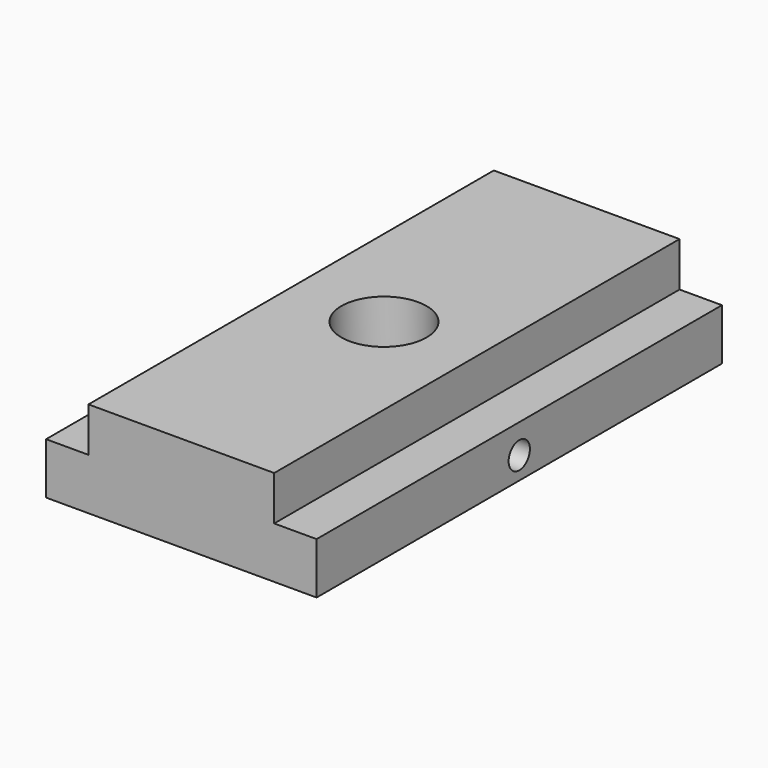
from build123d import *

# Parameters (mm, degrees)
F1_DEPTH = 47.57
F2_R     = 8
F3_DEPTH = 25
F4_R     = 12.7
F5_DEPTH = 8.2
F6_R     = 2.5
F7_DEPTH = 50.801
F8_R     = 4
F9_DEPTH = 15.2


with BuildPart() as f1:
    # F0 (on Front) → F1 (new body, symmetric)
    with BuildSketch(Plane.XZ):
        Polygon((-25.4, 0), (0, 0), (25.4, 0), (25.4, 9.66), (17.44, 9.66), (17.44, 18), (0, 18), (-17.44, 18), (-17.44, 9.66), (-25.4, 9.66), align=None)
    extrude(amount=F1_DEPTH, both=True)

    # F2 (on face) → F3 (cut)
    with BuildSketch(Plane.XY.offset(18)):
        Circle(F2_R)
    extrude(amount=-F3_DEPTH, mode=Mode.SUBTRACT)

    # F4 (on face) → F5 (cut)
    with BuildSketch(Plane(origin=(0, 0, 0), x_dir=(1, 0, 0), z_dir=(0, 0, -1))):
        Circle(F4_R)
    extrude(amount=-F5_DEPTH, mode=Mode.SUBTRACT)

    # F6 (on face) → F7 (cut, through all)
    with BuildSketch(Plane(origin=(-25.4, 0, 0), x_dir=(0, -1, 0), z_dir=(-1, 0, 0))):
        with Locations((0, 4.2)):
            Circle(F6_R)
    extrude(amount=-F7_DEPTH, mode=Mode.SUBTRACT)

    # F8 (on face) → F9 (cut)
    with BuildSketch(Plane(origin=(0, 0, 0), x_dir=(1, 0, 0), z_dir=(0, 0, -1))):
        with Locations((0, -12.7)):
            Circle(F8_R)
    extrude(amount=-F9_DEPTH, mode=Mode.SUBTRACT)


solid = f1.part
